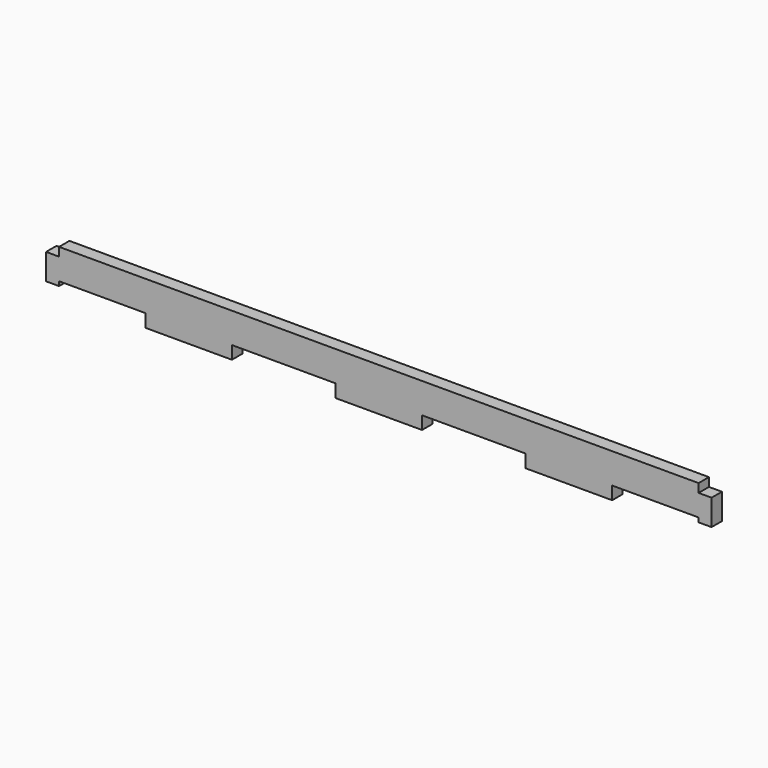
from build123d import *

# Parameters (mm, degrees)
F1_DEPTH = 3
F2_W     = 20
F2_H     = 3
F2_W_2   = 24
F3_DEPTH = 3.001


with BuildPart() as f1:
    # F0 (on Front) → F1 (new body)
    with BuildSketch(Plane.XZ):
        Polygon((3, 2), (3, 0), (151, 0), (151, 2), (154, 2), (154, 8), (151, 8), (151, 10), (3, 10), (3, 8), (0, 8), (0, 2), align=None)
    extrude(amount=F1_DEPTH)

    # F2 (on face) → F3 (cut, through all)
    with BuildSketch(Plane.XZ.offset(3)):
        with Locations((13, 1.5)):
            Rectangle(F2_W, F2_H)
        with Locations((55, 1.5)):
            Rectangle(F2_W_2, F2_H)
        with Locations((99, 1.5)):
            Rectangle(F2_W_2, F2_H)
        with Locations((141, 1.5)):
            Rectangle(F2_W, F2_H)
    extrude(amount=-F3_DEPTH, mode=Mode.SUBTRACT)


solid = f1.part
